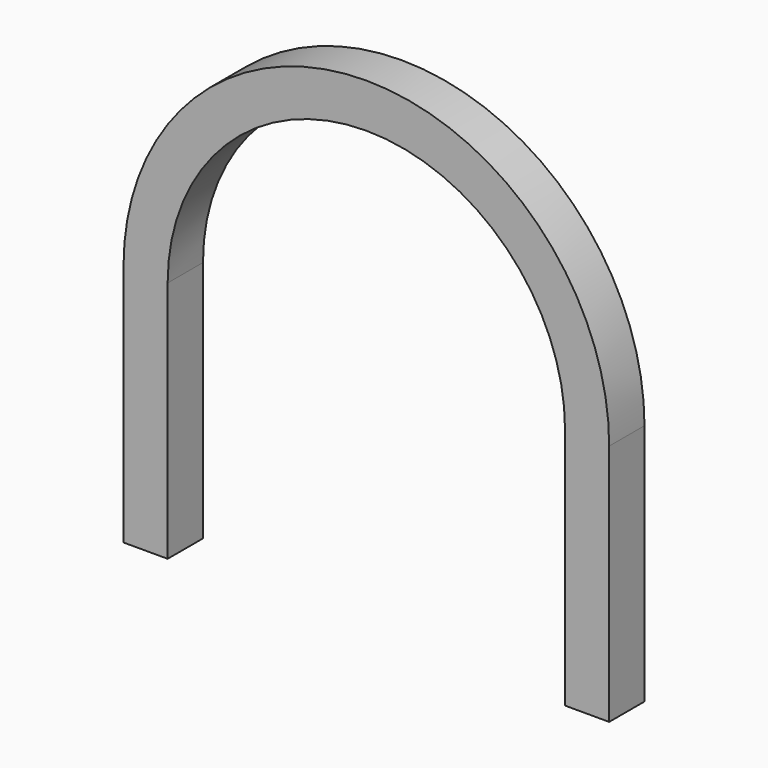
from build123d import *

# Parameters (mm, degrees)
F1_DEPTH = 25.4


with BuildPart() as f1:
    # F0 (on Front) → F1 (new body)
    with BuildSketch(Plane.XZ):
        with BuildLine():
            Line((139.7, -139.7), (139.7, 0))
            ThreePointArc((139.7, 0), (0, 139.7), (-139.7, 0))
            Line((-139.7, 0), (-139.7, -139.7))
            Line((-139.7, -139.7), (-114.3, -139.7))
            Line((-114.3, -139.7), (-114.3, 0))
            ThreePointArc((-114.3, 0), (0, 114.3), (114.3, 0))
            Line((114.3, 0), (114.3, -139.7))
            Line((114.3, -139.7), (139.7, -139.7))
        make_face()
    extrude(amount=F1_DEPTH)


solid = f1.part
